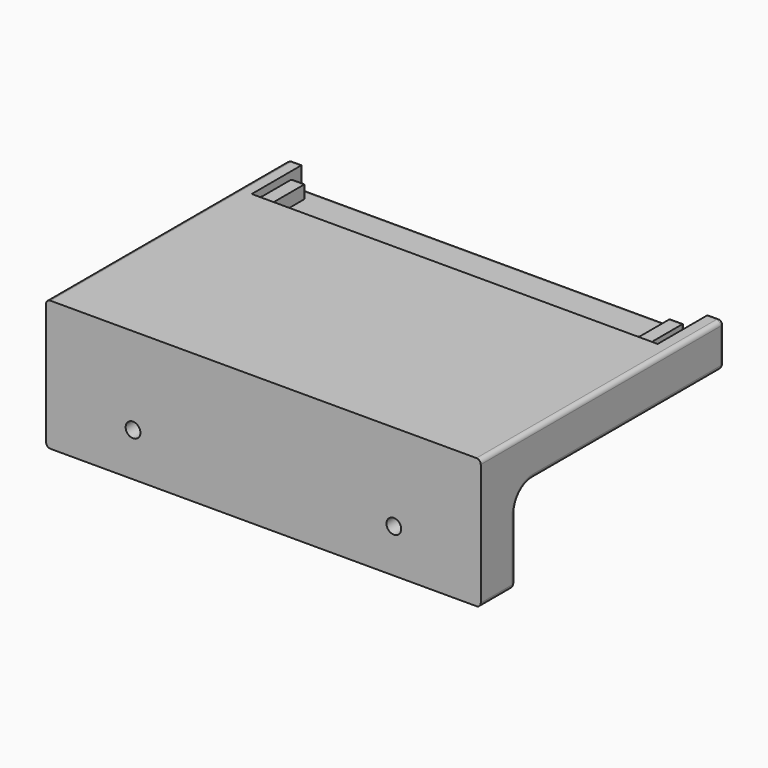
from build123d import *

# Parameters (mm, degrees)
SKETCH_W        = 100
SKETCH_H        = 70
PAD_DEPTH       = 10
SKETCH001_W     = 100
SKETCH001_H     = 10
PAD001_DEPTH    = 20
SKETCH002_W     = 93.4
SKETCH002_H     = 5
POCKET_DEPTH    = 15
SKETCH003_W     = 3
SKETCH003_H     = 3
PAD002_DEPTH    = 10
SKETCH004_R     = 1.7
POCKET001_DEPTH = 15
SKETCH005_R     = 3
POCKET002_DEPTH = 3.2
FILLET_R        = 5
FILLET001_R     = 1
FILLET002_R     = 1


with BuildPart() as part:
    # Sketch → Pad (new body)
    with BuildSketch(Plane.XY):
        with Locations((50, 35)):
            Rectangle(SKETCH_W, SKETCH_H)
    extrude(amount=PAD_DEPTH)

    # Sketch001 → Pad001 (new body)
    with BuildSketch(Plane(origin=(0, 0, 0), x_dir=(1, 0, 0), z_dir=(0, 0, -1))):
        with Locations((50, -5)):
            Rectangle(SKETCH001_W, SKETCH001_H)
    extrude(amount=PAD001_DEPTH)

    # Sketch002 → Pocket (cut)
    with BuildSketch(Plane(origin=(0, 70, 0), x_dir=(-1, 0, 0), z_dir=(0, 1, 0))):
        with Locations((-50, 7.5)):
            Rectangle(SKETCH002_W, SKETCH002_H)
    extrude(amount=-POCKET_DEPTH, mode=Mode.SUBTRACT)

    # Sketch003 → Pad002 (new body)
    with BuildSketch(Plane(origin=(0, 55, 0), x_dir=(-1, 0, 0), z_dir=(0, 1, 0))):
        with Locations((-6.5, 8.2)):
            Rectangle(SKETCH003_W, SKETCH003_H)
        with Locations((-93.5, 8.2)):
            Rectangle(SKETCH003_W, SKETCH003_H)
    extrude(amount=PAD002_DEPTH)

    # Sketch004 → Pocket001 (cut)
    with BuildSketch(Plane(origin=(0, 10, 0), x_dir=(-1, 0, 0), z_dir=(0, 1, 0))):
        with Locations((-20, -10)):
            Circle(SKETCH004_R)
        with Locations((-80, -10)):
            Circle(SKETCH004_R)
    extrude(amount=-POCKET001_DEPTH, mode=Mode.SUBTRACT)

    # Sketch005 → Pocket002 (cut)
    with BuildSketch(Plane(origin=(0, 10, 0), x_dir=(-1, 0, 0), z_dir=(0, 1, 0))):
        with Locations((-20, -10)):
            Circle(SKETCH005_R)
        with Locations((-80, -10)):
            Circle(SKETCH005_R)
    extrude(amount=-POCKET002_DEPTH, mode=Mode.SUBTRACT)

    # Fillet
    fillet_edges = [part.edges().sort_by_distance(p)[0] for p in [
        (50, 10, 0),
    ]]
    fillet(fillet_edges, radius=FILLET_R)

    # Fillet001
    fillet001_edges = [part.edges().sort_by_distance(p)[0] for p in [
        (100, 70, 5),
        (50, 70, 0),
        (100, 42.5, 0),
        (100, 35, 10),
        (100, 11.464466, -1.464466),
        (100, 10, -12.5),
        (50, 10, -20),
        (100, 5, -20),
        (0, 5, -20),
        (0, 10, -12.5),
        (0, 11.464466, -1.464466),
        (0, 42.5, 0),
        (0, 70, 5),
        (0, 35, 10),
        (1.65, 70, 10),
        (98.35, 70, 10),
        (92, 65, 8.2),
        (93.5, 65, 6.7),
        (95, 65, 8.2),
        (93.5, 65, 9.7),
        (5, 65, 8.2),
        (6.5, 65, 6.7),
        (8, 65, 8.2),
        (6.5, 65, 9.7),
        (3.3, 70, 7.5),
        (50, 70, 5),
        (96.7, 70, 7.5),
    ]]
    fillet(fillet001_edges, radius=FILLET001_R)

    # Fillet002
    fillet002_edges = [part.edges().sort_by_distance(p)[0] for p in [
        (95, 55, 8.2),
        (92, 55, 8.2),
        (8, 55, 8.2),
        (5, 55, 8.2),
    ]]
    fillet(fillet002_edges, radius=FILLET002_R)


solid = part.part
